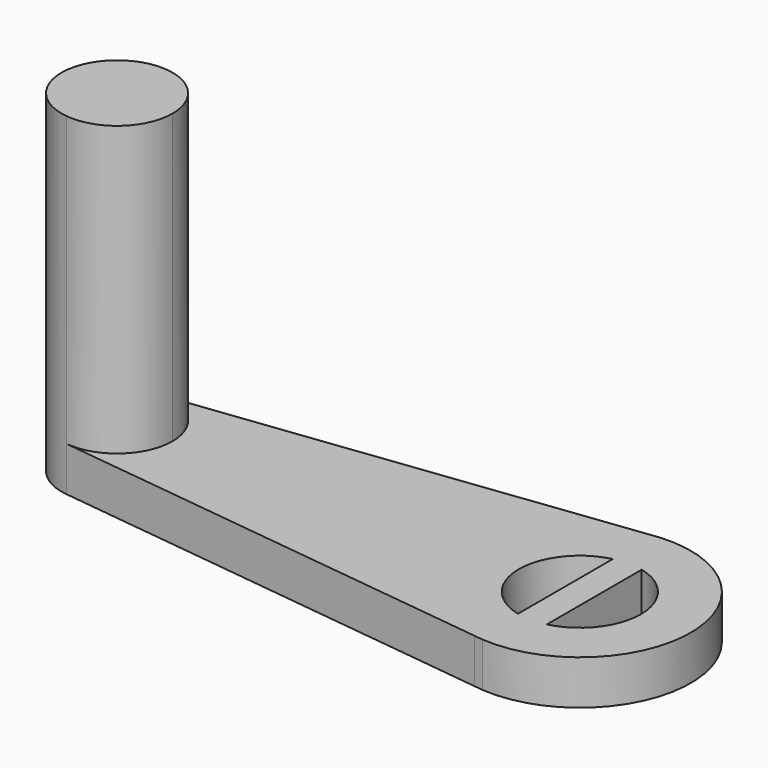
from build123d import *

# Parameters (mm, degrees)
F1_DEPTH = 15
F2_DEPTH = 2


with BuildPart() as f1:
    # F0 (on Top) → F1 (new body)
    with BuildSketch(Plane.XY):
        with BuildLine():
            ThreePointArc((-20.774407, 2.498756), (-23.346099, 0.18924), (-21.152519, -2.482026))
            ThreePointArc((-21.152519, -2.482026), (-19.194675, -1.870577), (-18.353272, 0))
            ThreePointArc((-18.353272, 0), (-19.057839, 1.739661), (-20.774407, 2.498756))
        make_face()
    extrude(amount=F1_DEPTH)

    # F0 (on Top) → F2 (join)
    with BuildSketch(Plane.XY):
        with BuildLine():
            Line((-21.152519, -2.482026), (-0.793802, -4.936586))
            Line((-0.793802, -4.936586), (-0.402254, -4.983793))
            ThreePointArc((-0.402254, -4.983793), (4.999974, -0.016188), (-0.369976, 4.986293))
            Line((-0.369976, 4.986293), (-0.83883, 4.929134))
            Line((-0.83883, 4.929134), (-20.774407, 2.498756))
            ThreePointArc((-20.774407, 2.498756), (-19.057839, 1.739661), (-18.353272, 0))
            ThreePointArc((-18.353272, 0), (-19.194675, -1.870577), (-21.152519, -2.482026))
        make_face()
        with BuildLine():
            ThreePointArc((0.65, 2.672078), (2.162175, 1.699265), (2.75, 0))
            ThreePointArc((2.75, 0), (2.162175, -1.699265), (0.65, -2.672078))
            ThreePointArc((0.65, -2.672078), (0, -2.75), (-0.65, -2.672078))
            ThreePointArc((-0.65, -2.672078), (-2.75, 0), (-0.65, 2.672078))
            ThreePointArc((-0.65, 2.672078), (0, 2.75), (0.65, 2.672078))
        make_face(mode=Mode.SUBTRACT)
        with BuildLine():
            Line((0.65, -2.672078), (0.65, 2.672078))
            ThreePointArc((0.65, 2.672078), (0, 2.75), (-0.65, 2.672078))
            Line((-0.65, 2.672078), (-0.65, -2.672078))
            ThreePointArc((-0.65, -2.672078), (0, -2.75), (0.65, -2.672078))
        make_face()
    extrude(amount=F2_DEPTH)


solid = f1.part
